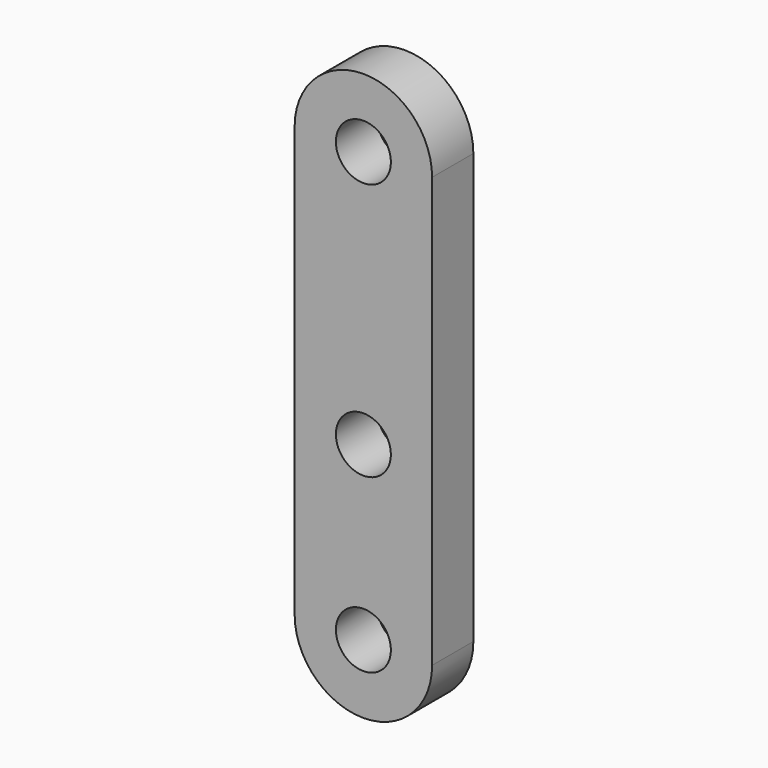
from build123d import *

# Parameters (mm, degrees)
F0_R     = 1.6
F1_DEPTH = 3


with BuildPart() as f1:
    # F0 (on Front) → F1 (new body)
    with BuildSketch(Plane.XZ):
        with BuildLine():
            Line((4, -19.086197), (4, 5.913803))
            ThreePointArc((4, 5.913803), (0, 1.913803), (-4, 5.913803))
            Line((-4, 5.913803), (-4, -19.086197))
            ThreePointArc((-4, -19.086197), (0, -15.086197), (4, -19.086197))
        make_face()
        with Locations((0, -9.072888)):
            Circle(F0_R, mode=Mode.SUBTRACT)
        with BuildLine():
            Line((1.6, 5.913803), (4, 5.913803))
            ThreePointArc((4, 5.913803), (0, 9.913803), (-4, 5.913803))
            Line((-4, 5.913803), (-1.6, 5.913803))
            ThreePointArc((-1.6, 5.913803), (0, 7.513803), (1.6, 5.913803))
        make_face()
        with BuildLine():
            ThreePointArc((-4, -19.086197), (0, -23.086197), (4, -19.086197))
            Line((4, -19.086197), (1.6, -19.086197))
            ThreePointArc((1.6, -19.086197), (0, -20.686197), (-1.6, -19.086197))
            Line((-1.6, -19.086197), (-4, -19.086197))
        make_face()
        with BuildLine():
            Line((1.6, -19.086197), (4, -19.086197))
            ThreePointArc((4, -19.086197), (0, -15.086197), (-4, -19.086197))
            Line((-4, -19.086197), (-1.6, -19.086197))
            ThreePointArc((-1.6, -19.086197), (0, -17.486197), (1.6, -19.086197))
        make_face()
        with BuildLine():
            ThreePointArc((-4, 5.913803), (0, 1.913803), (4, 5.913803))
            Line((4, 5.913803), (1.6, 5.913803))
            ThreePointArc((1.6, 5.913803), (0, 4.313803), (-1.6, 5.913803))
            Line((-1.6, 5.913803), (-4, 5.913803))
        make_face()
    extrude(amount=F1_DEPTH)


solid = f1.part
